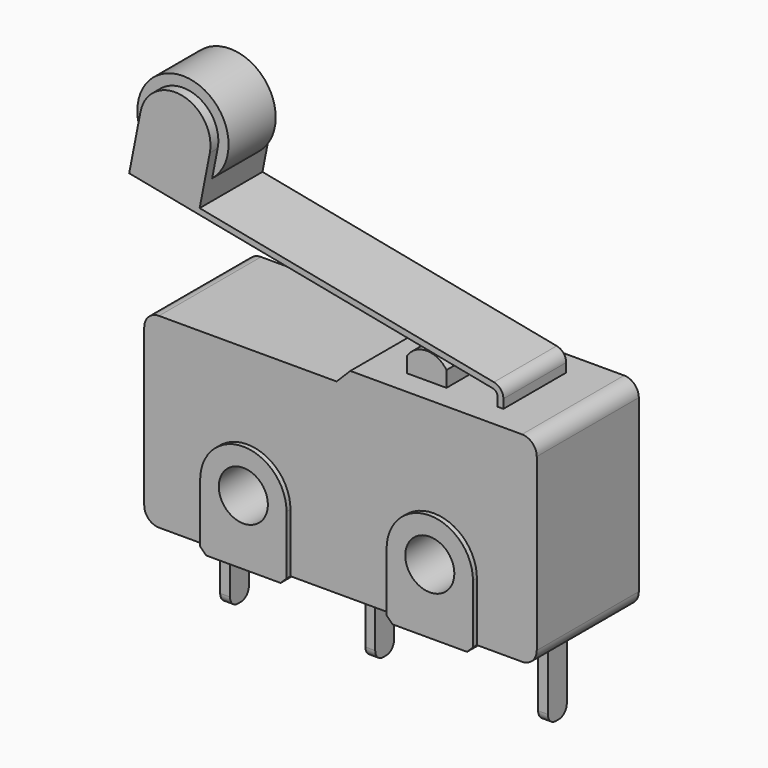
from build123d import *

# Parameters (mm, degrees)
F0_R      = 1.25
F1_DEPTH  = 3.25
F2_R      = 1.25
F3_DEPTH  = 0.25
F4_R      = 1.25
F5_DEPTH  = 0.25
F6_R      = 0.75
F7_DEPTH  = 2
F8_W      = 3.4
F8_H      = 6
F9_DEPTH  = 25
F10_R     = 0.75
F11_DEPTH = 4
F12_W     = 0.5
F12_H     = 1.2
F13_DEPTH = 4.2
F14_R     = 0.5
F15_R     = 2.325
F15_R_2   = 0.8
F16_DEPTH = 1.5


with BuildPart() as f1:
    # F0 (on Front) → F1 (new body, symmetric)
    with BuildSketch(Plane.XZ):
        with BuildLine():
            ThreePointArc((0, 0.75), (0.2196699141, 0.2196699141), (0.75, 0))
            Line((0.75, 0), (3.05, 0))
            Line((3.05, 0), (3.35, -0.3))
            Line((3.35, -0.3), (7.15, -0.3))
            Line((7.15, -0.3), (7.45, 0))
            Line((7.45, 0), (12.55, 0))
            Line((12.55, 0), (12.85, -0.3))
            Line((12.85, -0.3), (16.65, -0.3))
            Line((16.65, -0.3), (16.95, 0))
            Line((16.95, 0), (19.25, 0))
            ThreePointArc((19.25, 0), (19.7803300859, 0.2196699141), (20, 0.75))
            Line((20, 0.75), (20, 9.45))
            ThreePointArc((20, 9.45), (19.7803300859, 9.9803300859), (19.25, 10.2))
            Line((19.25, 10.2), (10.5, 10.2))
            Line((10.5, 10.2), (9.8, 9.5))
            Line((9.8, 9.5), (0.75, 9.5))
            ThreePointArc((0.75, 9.5), (0.2196699141, 9.2803300859), (0, 8.75))
            Line((0, 8.75), (0, 0.75))
        make_face()
        with Locations((5.25, 3)):
            Circle(F0_R, mode=Mode.SUBTRACT)
        with Locations((14.75, 3)):
            Circle(F0_R, mode=Mode.SUBTRACT)
    extrude(amount=F1_DEPTH, both=True)

    # F2 (on face) → F3 (join)
    with BuildSketch(Plane.XZ.offset(3.25)):
        with BuildLine():
            Line((7.45, 0), (7.45, 3))
            ThreePointArc((7.45, 3), (5.25, 5.2), (3.05, 3))
            Line((3.05, 3), (3.05, 0))
            Line((3.05, 0), (3.35, -0.3))
            Line((3.35, -0.3), (7.15, -0.3))
            Line((7.15, -0.3), (7.45, 0))
        make_face()
        with Locations((5.25, 3)):
            Circle(F2_R, mode=Mode.SUBTRACT)
        with BuildLine():
            Line((16.95, 0), (16.95, 3))
            ThreePointArc((16.95, 3), (14.75, 5.2), (12.55, 3))
            Line((12.55, 3), (12.55, 0))
            Line((12.55, 0), (12.85, -0.3))
            Line((12.85, -0.3), (16.65, -0.3))
            Line((16.65, -0.3), (16.95, 0))
        make_face()
        with Locations((14.75, 3)):
            Circle(F2_R, mode=Mode.SUBTRACT)
    extrude(amount=F3_DEPTH)

    # F4 (on face) → F5 (join)
    with BuildSketch(Plane(origin=(0, 3.25, 0), x_dir=(-1, 0, 0), z_dir=(0, 1, 0))):
        with BuildLine():
            Line((-12.55, 0), (-12.55, 3))
            ThreePointArc((-12.55, 3), (-14.75, 5.2), (-16.95, 3))
            Line((-16.95, 3), (-16.95, 0))
            Line((-16.95, 0), (-16.65, -0.3))
            Line((-16.65, -0.3), (-12.85, -0.3))
            Line((-12.85, -0.3), (-12.55, 0))
        make_face()
        with Locations((-14.75, 3)):
            Circle(F4_R, mode=Mode.SUBTRACT)
        with BuildLine():
            Line((-3.05, 0), (-3.05, 3))
            ThreePointArc((-3.05, 3), (-5.25, 5.2), (-7.45, 3))
            Line((-7.45, 3), (-7.45, 0))
            Line((-7.45, 0), (-7.15, -0.3))
            Line((-7.15, -0.3), (-3.35, -0.3))
            Line((-3.35, -0.3), (-3.05, 0))
        make_face()
        with Locations((-5.25, 3)):
            Circle(F4_R, mode=Mode.SUBTRACT)
    extrude(amount=F5_DEPTH)

    # F6 (on Front) → F7 (join, symmetric)
    with BuildSketch(Plane.XZ):
        with BuildLine():
            Line((12.4, 10.2), (14.4, 10.2))
            Line((14.4, 10.2), (14.4, 11))
            ThreePointArc((14.4, 11), (13.4, 11.5366750419), (12.4, 11))
            Line((12.4, 11), (12.4, 10.2))
        make_face()
        with BuildLine():
            Line((17, 10.6529764402), (17, 10.2))
            Line((17, 10.2), (17.3, 10.2))
            Line((17.3, 10.2), (17.3, 10.6529764402))
            ThreePointArc((17.3, 10.6529764402), (17.1631848578, 11.0343683482), (16.8151340416, 11.2418262958))
            Line((16.8151340416, 11.2418262958), (1.8241165877, 14.1729239433))
            Line((1.8241165877, 14.1729239433), (2.3422197747, 16.8227482936))
            ThreePointArc((2.3422197747, 16.8227482936), (0.9210723325, 18.9346999851), (-1.1908793591, 17.5135525429))
            Line((-1.1908793591, 17.5135525429), (-1.7665495669, 14.5693032648))
            Line((-1.7665495669, 14.5693032648), (16.7575670208, 10.947401368))
            ThreePointArc((16.7575670208, 10.947401368), (16.9315924289, 10.8436723942), (17, 10.6529764402))
        make_face()
        with Locations((0.5756702078, 17.1681504183)):
            Circle(F6_R, mode=Mode.SUBTRACT)
    extrude(amount=F7_DEPTH, both=True)

    # F8 (on face) → F9 (cut)
    with BuildSketch(Plane(origin=(-4.4452524635, 0, 0.8691517489), x_dir=(0, -1, 0), z_dir=(-0.981416426, 0, 0.1918900693))):
        with Locations((0, 17.2595702214)):
            Rectangle(F8_W, F8_H)
    extrude(amount=F9_DEPTH, mode=Mode.SUBTRACT)

    # F12 (on face) → F13 (join)
    with BuildSketch(Plane(origin=(0, 0, 0), x_dir=(1, 0, 0), z_dir=(0, 0, -1))):
        with Locations((18.2, 0)):
            Rectangle(F12_W, F12_H)
        with Locations((9.4, 0)):
            Rectangle(F12_W, F12_H)
        with Locations((2, 0)):
            Rectangle(F12_W, F12_H)
    extrude(amount=F13_DEPTH)

    # F14
    f14_edges = [f1.edges().sort_by_distance(p)[0] for p in [
        (2, -0.6, -4.2),
        (2, 0.6, -4.2),
        (9.4, 0.6, -4.2),
        (9.4, -0.6, -4.2),
        (18.2, -0.6, -4.2),
        (18.2, 0.6, -4.2),
    ]]
    fillet(f14_edges, radius=F14_R)



with BuildPart() as f11:
    # F10 (on face) → F11 (new body)
    with BuildSketch(Plane.XZ.offset(2)):
        with Locations((0.5756702078, 17.1681504183)):
            Circle(F10_R)
    extrude(amount=-F11_DEPTH)


with BuildPart() as f1_1:
    add(f1.part)

    add(f11.part)  # F16 merges F11
    # F15 (on Front) → F16 (join, symmetric)
    with BuildSketch(Plane.XZ):
        with Locations((0.5733088478, 17.1697099968)):
            Circle(F15_R)
        with Locations((0.5733088478, 17.1697099968)):
            Circle(F15_R_2, mode=Mode.SUBTRACT)
        with Locations((0.5733088478, 17.1697099968)):
            Circle(F15_R_2)
    extrude(amount=F16_DEPTH, both=True)


solid = f1_1.part
